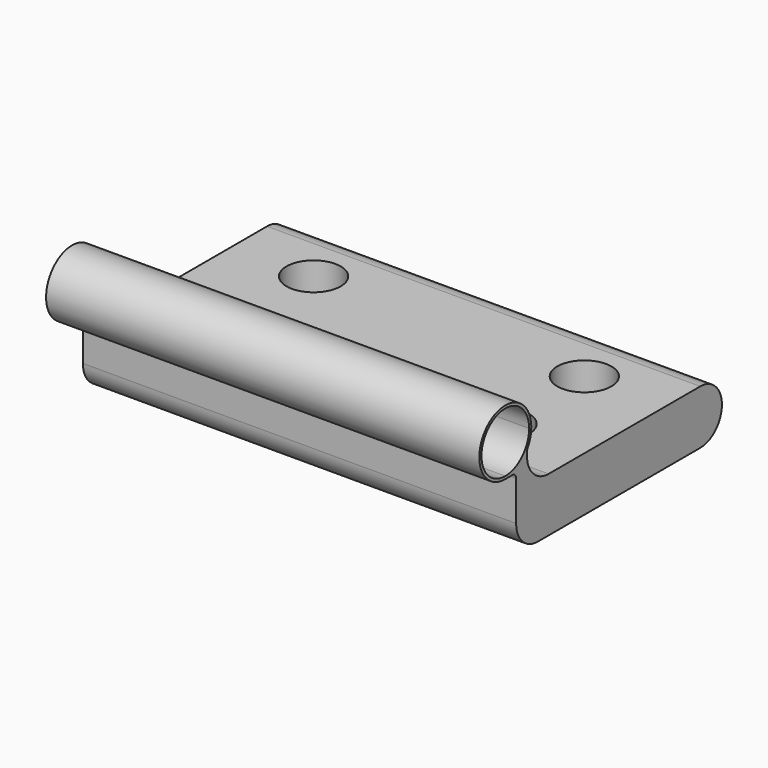
from build123d import *

# Parameters (mm, degrees)
F1_DEPTH = 50.8
F2_R     = 3.175
F3_DEPTH = 25.4


with BuildPart() as f1:
    # F0 (on Right) → F1 (new body)
    with BuildSketch(Plane.YZ):
        with BuildLine():
            ThreePointArc((12.7, 0), (11.770064, 2.245064), (9.525, 3.175))
            Line((9.525, 3.175), (-12.7, 3.175))
            ThreePointArc((-12.7, 3.175), (-14.945064, 4.104936), (-15.875, 6.35))
            Line((-15.875, 6.35), (-15.875, 6.919573))
            ThreePointArc((-15.875, 6.919573), (-20.851669, 12.382725), (-19.05, 5.21563))
            Line((-19.05, 5.21563), (-18.026482, 5.21563))
            ThreePointArc((-18.026482, 5.21563), (-17.627686, 5.050443), (-17.4625, 4.651648))
            Line((-17.4625, 4.651648), (-17.4625, 0))
            ThreePointArc((-17.4625, 0), (-16.532564, -2.245064), (-14.2875, -3.175))
            Line((-14.2875, -3.175), (-12.7, -3.175))
            Line((-12.7, -3.175), (9.525, -3.175))
            ThreePointArc((9.525, -3.175), (11.770064, -2.245064), (12.7, 0))
        make_face()
        with BuildLine():
            ThreePointArc((-15.5575, 9.02563), (-16.58043, 6.556059), (-19.05, 5.53313))
            ThreePointArc((-19.05, 5.53313), (-21.51957, 11.4952), (-15.5575, 9.02563))
        make_face(mode=Mode.SUBTRACT)
    extrude(amount=F1_DEPTH)

    # F2 (on face) → F3 (cut)
    with BuildSketch(Plane.XY.offset(3.175)):
        with Locations((41.275, -7.62)):
            Circle(F2_R)
        with Locations((41.275, 4.445)):
            Circle(F2_R)
        with Locations((9.525, 4.445)):
            Circle(F2_R)
        with Locations((9.525, -7.62)):
            Circle(F2_R)
    extrude(amount=-F3_DEPTH, mode=Mode.SUBTRACT)


solid = f1.part
